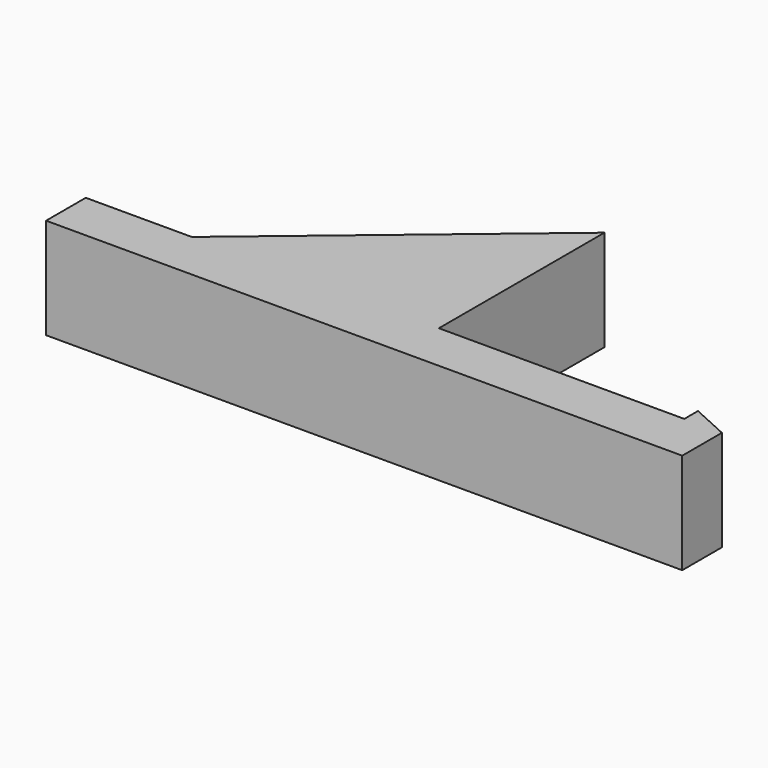
from build123d import *

# Parameters (mm, degrees)
F1_DEPTH = 12.7


with BuildPart() as f1:
    # F0 (on Top) → F1 (new body)
    with BuildSketch(Plane.XY):
        Polygon((-31.120982, 6.245733), (-44.473931, 6.245733), (-44.473931, 0), (35.643756, 0), (35.643756, 6.245733), (30.905612, 6.245733), (0, 6.245733), align=None)
        Polygon((0, 32.30552), (-31.120982, 6.245733), (0, 6.245733), align=None)
        Polygon((30.905612, 8.399435), (30.905612, 6.245733), (35.643756, 6.245733), align=None)
    extrude(amount=F1_DEPTH)


solid = f1.part
